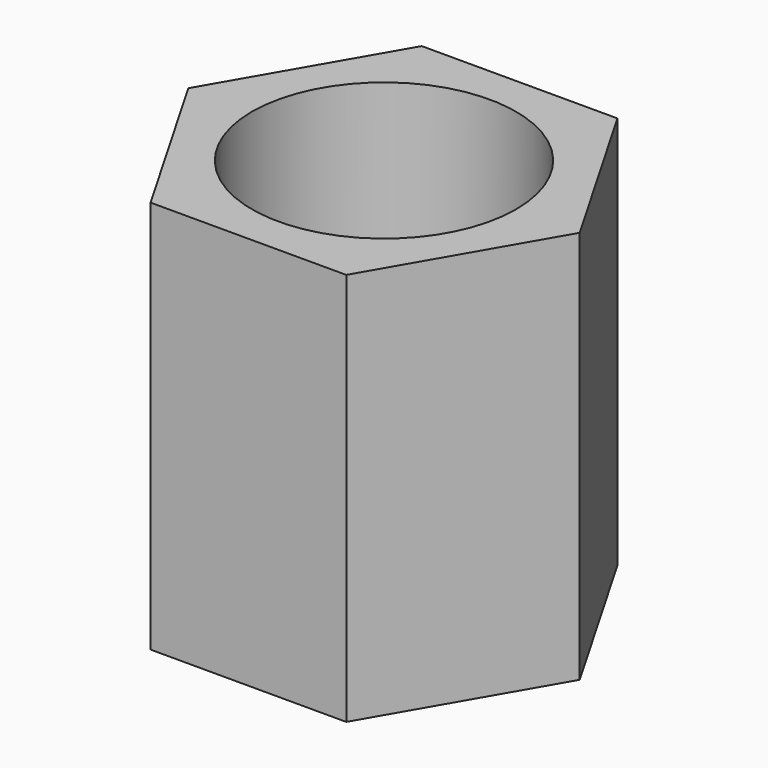
from build123d import *

# Parameters (mm, degrees)
F0_R     = 4.6
F1_DEPTH = 12.7
F0_R_2   = 3.2
F2_DEPTH = 1


with BuildPart() as f1:
    # F0 (on Top) → F1 (new body)
    with BuildSketch(Plane.XY):
        Polygon((3.4063665882, 5.9), (-3.4063665882, 5.9), (-6.8127331764, 0), (-3.4063665882, -5.9), (3.4063665882, -5.9), (6.8127331764, 0), align=None)
        Circle(F0_R, mode=Mode.SUBTRACT)
    extrude(amount=F1_DEPTH)

    # F0 (on Top) → F2 (join)
    with BuildSketch(Plane.XY):
        Polygon((3.4063665882, 5.9), (-3.4063665882, 5.9), (-6.8127331764, 0), (-3.4063665882, -5.9), (3.4063665882, -5.9), (6.8127331764, 0), align=None)
        Circle(F0_R, mode=Mode.SUBTRACT)
        Circle(F0_R)
        Circle(F0_R_2, mode=Mode.SUBTRACT)
    extrude(amount=-F2_DEPTH)


solid = f1.part
